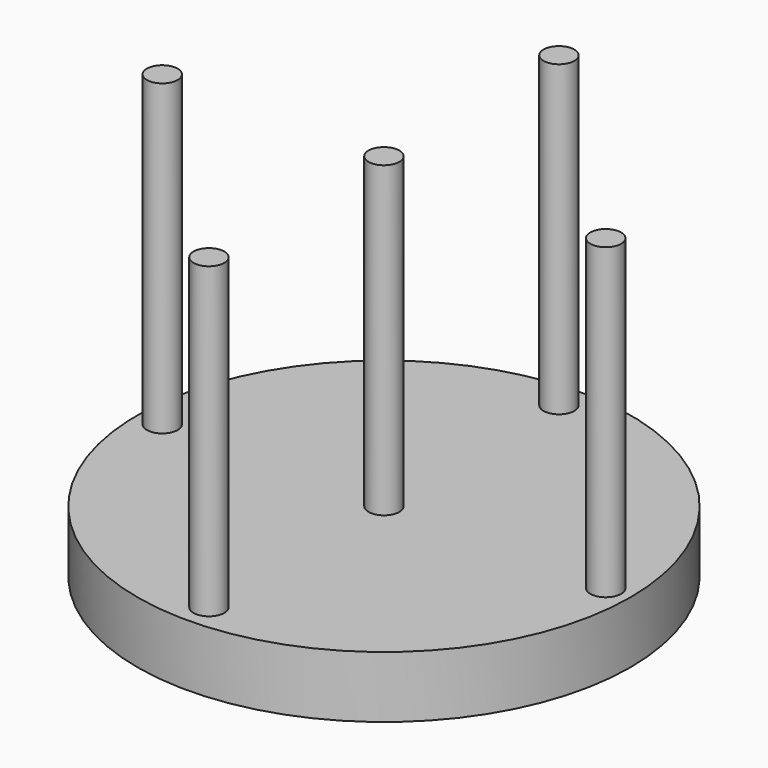
from build123d import *

# Parameters (mm, degrees)
F0_R     = 40.000185
F1_DEPTH = 10
F2_R     = 2.50061
F3_DEPTH = 50
F4_R     = 2.501284
F4_R_2   = 2.498539
F4_R_3   = 2.501993
F4_R_4   = 2.501243
F5_DEPTH = 50


with BuildPart() as f1:
    # F0 (on Top) → F1 (new body)
    with BuildSketch(Plane.XY):
        Circle(F0_R)
    extrude(amount=F1_DEPTH)

    # F2 (on face) → F3 (join)
    with BuildSketch(Plane.XY.offset(10)):
        Circle(F2_R)
    extrude(amount=F3_DEPTH)

    # F4 (on face) → F5 (join)
    with BuildSketch(Plane.XY.offset(10)):
        with Locations((0, 35.487343)):
            Circle(F4_R)
        with Locations((-35.967495, 0)):
            Circle(F4_R_2)
        with Locations((0, -35.491817)):
            Circle(F4_R_3)
        with Locations((35.982933, 0)):
            Circle(F4_R_4)
    extrude(amount=F5_DEPTH)


solid = f1.part
